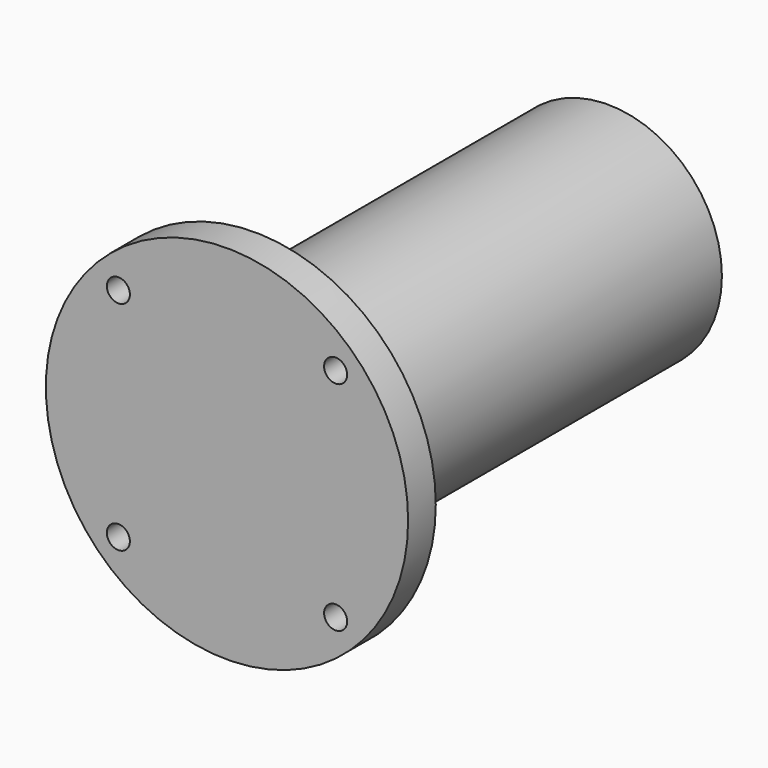
from build123d import *

# Parameters (mm, degrees)
F0_R     = 89
F1_DEPTH = 345
F2_R     = 141.5
F3_DEPTH = 27
F4_R     = 9
F5_DEPTH = 372.001


with BuildPart() as f1:
    # F0 (on Front) → F1 (new body)
    with BuildSketch(Plane.XZ):
        Circle(F0_R)
    extrude(amount=F1_DEPTH)

    # F2 (on face) → F3 (join)
    with BuildSketch(Plane.XZ.offset(345)):
        Circle(F2_R)
    extrude(amount=F3_DEPTH)

    # F4 (on face) → F5 (cut, through all)
    with BuildSketch(Plane.XZ.offset(372)):
        with Locations((-84.852814, 84.852814)):
            Circle(F4_R)
        with Locations((-84.852814, -84.852814)):
            Circle(F4_R)
        with Locations((84.852814, -84.852814)):
            Circle(F4_R)
        with Locations((84.852814, 84.852814)):
            Circle(F4_R)
    extrude(amount=-F5_DEPTH, mode=Mode.SUBTRACT)


solid = f1.part
